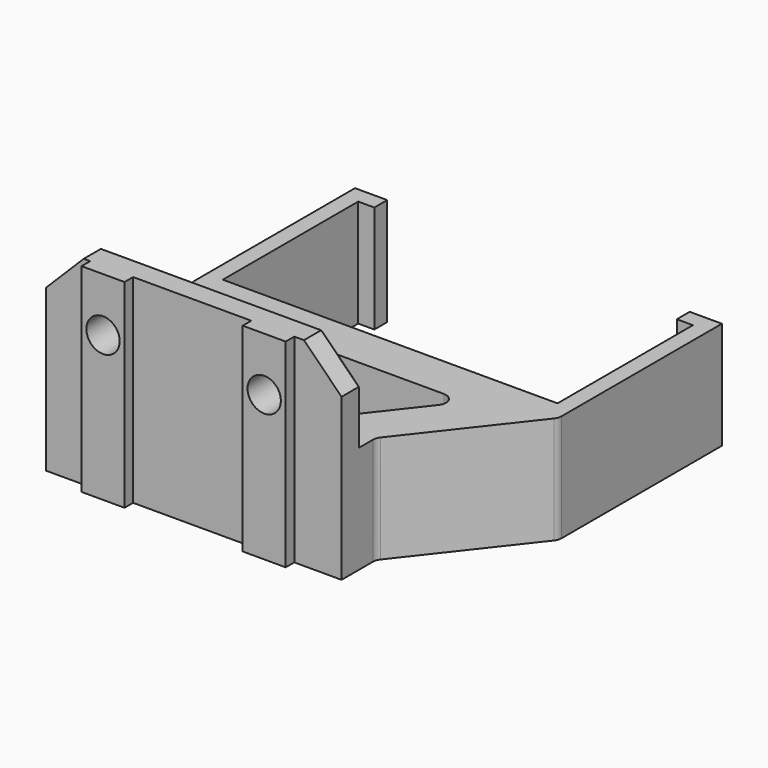
from build123d import *

# Parameters (mm, degrees)
PAD_DEPTH       = 20
SKETCH001_W     = 55
SKETCH001_H     = 5
PAD001_DEPTH    = 37
SKETCH002_W     = 8
SKETCH002_H     = 37
PAD002_DEPTH    = 2
SKETCH003_R     = 3.1
POCKET_DEPTH    = 7.001
CHAMFER_SIZE    = 7
FILLET_R        = 2
CHAMFER001_SIZE = 1


with BuildPart() as part:
    # Sketch → Pad (new body)
    with BuildSketch(Plane.XY):
        Polygon((-31.15, 0), (31.15, 0), (31.15, 31.5), (28.15, 31.5), (28.15, 34.5), (34.15, 34.5), (34.15, -3.5), (17.35, -25), (17.35, -33), (-29.15, -33), (-29.15, -11), (-34.15, -3.5), (-34.15, 34.5), (-28.15, 34.5), (-28.15, 31.5), (-31.15, 31.5), align=None)
        Polygon((-21.15, -8), (20.481035, -8), (7.197314, -25), (-21.15, -25), align=None, mode=Mode.SUBTRACT)
    extrude(amount=PAD_DEPTH)

    # Sketch001 (on Face21 of Pad) → Pad001 (join)
    with BuildSketch(Plane(origin=(0, 0, 0), x_dir=(1, 0, 0), z_dir=(0, 0, -1))):
        with Locations((-10.15, 30.5)):
            Rectangle(SKETCH001_W, SKETCH001_H)
    extrude(amount=-PAD001_DEPTH)

    # Sketch002 (on Face25 of Pad001) → Pad002 (join)
    with BuildSketch(Plane.XZ.offset(33)):
        with Locations((4.55, 18.5)):
            Rectangle(SKETCH002_W, SKETCH002_H)
        with Locations((-25.45, 18.5)):
            Rectangle(SKETCH002_W, SKETCH002_H)
    extrude(amount=PAD002_DEPTH)

    # Sketch003 (on Face19 of Pad002) → Pocket (cut, through all)
    with BuildSketch(Plane(origin=(0, -28, 0), x_dir=(-1, 0, 0), z_dir=(0, 1, 0))):
        with Locations((-4.55, 27)):
            Circle(SKETCH003_R)
        with Locations((25.45, 27)):
            Circle(SKETCH003_R)
    extrude(amount=-POCKET_DEPTH, mode=Mode.SUBTRACT)

    # Chamfer
    chamfer_edges = [part.edges().sort_by_distance(p)[0] for p in [
        (-37.65, -30.5, 37),
        (17.35, -30.5, 37),
    ]]
    chamfer(chamfer_edges, length=CHAMFER_SIZE)

    # Fillet
    fillet_edges = [part.edges().sort_by_distance(p)[0] for p in [
        (-29.15, -28, 10),
        (-29.15, -11, 10),
        (-34.15, -3.5, 10),
        (17.35, -25, 10),
        (34.15, -3.5, 10),
        (7.197314, -25, 10),
        (20.481035, -8, 10),
        (-21.15, -8, 10),
        (-21.15, -25, 10),
    ]]
    fillet(fillet_edges, radius=FILLET_R)

    # Chamfer001
    chamfer001_edges = [part.edges().sort_by_distance(p)[0] for p in [
        (-34.15, -28, 33.5),
        (-37.65, -28, 15),
        (-10.15, -28, 37),
        (13.85, -28, 33.5),
        (17.35, -28, 25),
    ]]
    chamfer(chamfer001_edges, length=CHAMFER001_SIZE)


solid = part.part
